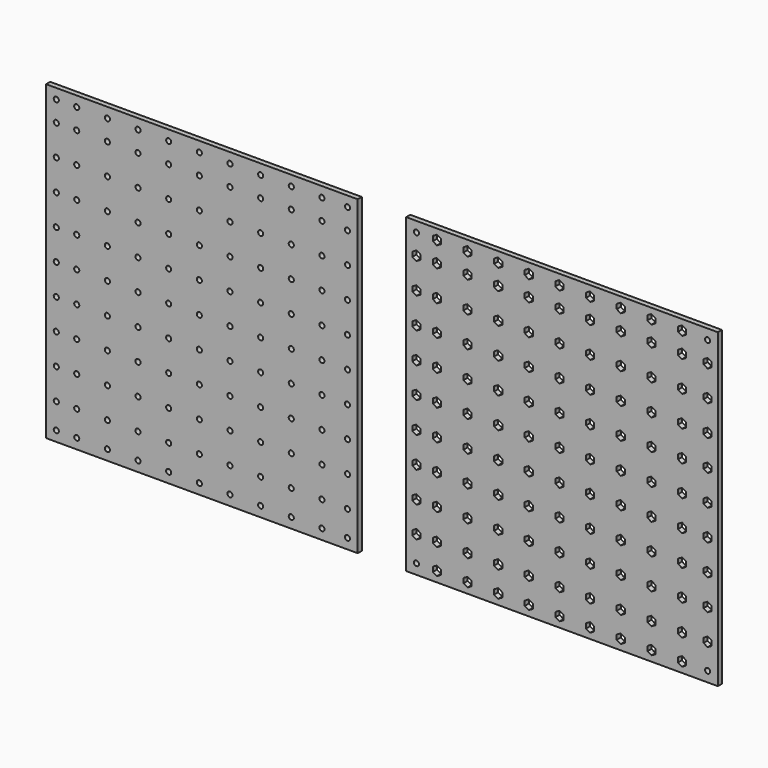
from build123d import *

# Parameters (mm, degrees)
F0_W     = 305
F0_H     = 305
F0_R     = 2.5
F1_DEPTH = 5
F2_W     = 305
F2_H     = 305
F2_R     = 2.5
F3_DEPTH = 5


with BuildPart() as f1:
    # F0 (on Front) → F1 (new body)
    with BuildSketch(Plane.XZ):
        with Locations((0, -18.268233)):
            Rectangle(F0_W, F0_H)
        with Locations((-142.5, -160.768233)):
            Circle(F0_R, mode=Mode.SUBTRACT)
        Polygon((-118.5, -158.458832), (-118.5, -163.077634), (-122.5, -165.387035), (-126.5, -163.077634), (-126.5, -158.458832), (-122.5, -156.149431), align=None, mode=Mode.SUBTRACT)
        Polygon((-138.5, -138.077634), (-142.5, -140.387035), (-146.5, -138.077634), (-146.5, -133.458832), (-142.5, -131.149431), (-138.5, -133.458832), align=None, mode=Mode.SUBTRACT)
        Polygon((-126.5, -133.458832), (-122.5, -131.149431), (-118.5, -133.458832), (-118.5, -138.077634), (-122.5, -140.387035), (-126.5, -138.077634), align=None, mode=Mode.SUBTRACT)
        Polygon((-92.5, -165.387035), (-96.5, -163.077634), (-96.5, -158.458832), (-92.5, -156.149431), (-88.5, -158.458832), (-88.5, -163.077634), align=None, mode=Mode.SUBTRACT)
        Polygon((-96.5, -133.458832), (-92.5, -131.149431), (-88.5, -133.458832), (-88.5, -138.077634), (-92.5, -140.387035), (-96.5, -138.077634), align=None, mode=Mode.SUBTRACT)
        Polygon((-138.5, -108.077634), (-142.5, -110.387035), (-146.5, -108.077634), (-146.5, -103.458832), (-142.5, -101.149431), (-138.5, -103.458832), align=None, mode=Mode.SUBTRACT)
        Polygon((-126.5, -103.458832), (-122.5, -101.149431), (-118.5, -103.458832), (-118.5, -108.077634), (-122.5, -110.387035), (-126.5, -108.077634), align=None, mode=Mode.SUBTRACT)
        Polygon((-96.5, -103.458832), (-92.5, -101.149431), (-88.5, -103.458832), (-88.5, -108.077634), (-92.5, -110.387035), (-96.5, -108.077634), align=None, mode=Mode.SUBTRACT)
        Polygon((-62.5, -165.387035), (-66.5, -163.077634), (-66.5, -158.458832), (-62.5, -156.149431), (-58.5, -158.458832), (-58.5, -163.077634), align=None, mode=Mode.SUBTRACT)
        Polygon((-66.5, -133.458832), (-62.5, -131.149431), (-58.5, -133.458832), (-58.5, -138.077634), (-62.5, -140.387035), (-66.5, -138.077634), align=None, mode=Mode.SUBTRACT)
        Polygon((-32.5, -165.387035), (-36.5, -163.077634), (-36.5, -158.458832), (-32.5, -156.149431), (-28.5, -158.458832), (-28.5, -163.077634), align=None, mode=Mode.SUBTRACT)
        Polygon((-2.5, -165.387035), (-6.5, -163.077634), (-6.5, -158.458832), (-2.5, -156.149431), (1.5, -158.458832), (1.5, -163.077634), align=None, mode=Mode.SUBTRACT)
        Polygon((-36.5, -133.458832), (-32.5, -131.149431), (-28.5, -133.458832), (-28.5, -138.077634), (-32.5, -140.387035), (-36.5, -138.077634), align=None, mode=Mode.SUBTRACT)
        Polygon((-6.5, -133.458832), (-2.5, -131.149431), (1.5, -133.458832), (1.5, -138.077634), (-2.5, -140.387035), (-6.5, -138.077634), align=None, mode=Mode.SUBTRACT)
        Polygon((-66.5, -103.458832), (-62.5, -101.149431), (-58.5, -103.458832), (-58.5, -108.077634), (-62.5, -110.387035), (-66.5, -108.077634), align=None, mode=Mode.SUBTRACT)
        Polygon((-36.5, -103.458832), (-32.5, -101.149431), (-28.5, -103.458832), (-28.5, -108.077634), (-32.5, -110.387035), (-36.5, -108.077634), align=None, mode=Mode.SUBTRACT)
        Polygon((-6.5, -103.458832), (-2.5, -101.149431), (1.5, -103.458832), (1.5, -108.077634), (-2.5, -110.387035), (-6.5, -108.077634), align=None, mode=Mode.SUBTRACT)
        Polygon((-146.5, -73.458832), (-142.5, -71.149431), (-138.5, -73.458832), (-138.5, -78.077634), (-142.5, -80.387035), (-146.5, -78.077634), align=None, mode=Mode.SUBTRACT)
        Polygon((-126.5, -73.458832), (-122.5, -71.149431), (-118.5, -73.458832), (-118.5, -78.077634), (-122.5, -80.387035), (-126.5, -78.077634), align=None, mode=Mode.SUBTRACT)
        Polygon((-96.5, -73.458832), (-92.5, -71.149431), (-88.5, -73.458832), (-88.5, -78.077634), (-92.5, -80.387035), (-96.5, -78.077634), align=None, mode=Mode.SUBTRACT)
        Polygon((-142.5, -50.387035), (-146.5, -48.077634), (-146.5, -43.458832), (-142.5, -41.149431), (-138.5, -43.458832), (-138.5, -48.077634), align=None, mode=Mode.SUBTRACT)
        Polygon((-126.5, -43.458832), (-122.5, -41.149431), (-118.5, -43.458832), (-118.5, -48.077634), (-122.5, -50.387035), (-126.5, -48.077634), align=None, mode=Mode.SUBTRACT)
        Polygon((-96.5, -43.458832), (-92.5, -41.149431), (-88.5, -43.458832), (-88.5, -48.077634), (-92.5, -50.387035), (-96.5, -48.077634), align=None, mode=Mode.SUBTRACT)
        Polygon((-66.5, -73.458832), (-62.5, -71.149431), (-58.5, -73.458832), (-58.5, -78.077634), (-62.5, -80.387035), (-66.5, -78.077634), align=None, mode=Mode.SUBTRACT)
        Polygon((-36.5, -73.458832), (-32.5, -71.149431), (-28.5, -73.458832), (-28.5, -78.077634), (-32.5, -80.387035), (-36.5, -78.077634), align=None, mode=Mode.SUBTRACT)
        Polygon((-6.5, -73.458832), (-2.5, -71.149431), (1.5, -73.458832), (1.5, -78.077634), (-2.5, -80.387035), (-6.5, -78.077634), align=None, mode=Mode.SUBTRACT)
        Polygon((-66.5, -43.458832), (-62.5, -41.149431), (-58.5, -43.458832), (-58.5, -48.077634), (-62.5, -50.387035), (-66.5, -48.077634), align=None, mode=Mode.SUBTRACT)
        Polygon((-36.5, -43.458832), (-32.5, -41.149431), (-28.5, -43.458832), (-28.5, -48.077634), (-32.5, -50.387035), (-36.5, -48.077634), align=None, mode=Mode.SUBTRACT)
        Polygon((-6.5, -43.458832), (-2.5, -41.149431), (1.5, -43.458832), (1.5, -48.077634), (-2.5, -50.387035), (-6.5, -48.077634), align=None, mode=Mode.SUBTRACT)
        Polygon((27.5, -165.387035), (23.5, -163.077634), (23.5, -158.458832), (27.5, -156.149431), (31.5, -158.458832), (31.5, -163.077634), align=None, mode=Mode.SUBTRACT)
        Polygon((23.5, -133.458832), (27.5, -131.149431), (31.5, -133.458832), (31.5, -138.077634), (27.5, -140.387035), (23.5, -138.077634), align=None, mode=Mode.SUBTRACT)
        Polygon((57.5, -165.387035), (53.5, -163.077634), (53.5, -158.458832), (57.5, -156.149431), (61.5, -158.458832), (61.5, -163.077634), align=None, mode=Mode.SUBTRACT)
        Polygon((53.5, -133.458832), (57.5, -131.149431), (61.5, -133.458832), (61.5, -138.077634), (57.5, -140.387035), (53.5, -138.077634), align=None, mode=Mode.SUBTRACT)
        Polygon((23.5, -103.458832), (27.5, -101.149431), (31.5, -103.458832), (31.5, -108.077634), (27.5, -110.387035), (23.5, -108.077634), align=None, mode=Mode.SUBTRACT)
        Polygon((53.5, -103.458832), (57.5, -101.149431), (61.5, -103.458832), (61.5, -108.077634), (57.5, -110.387035), (53.5, -108.077634), align=None, mode=Mode.SUBTRACT)
        Polygon((87.5, -165.387035), (83.5, -163.077634), (83.5, -158.458832), (87.5, -156.149431), (91.5, -158.458832), (91.5, -163.077634), align=None, mode=Mode.SUBTRACT)
        Polygon((83.5, -133.458832), (87.5, -131.149431), (91.5, -133.458832), (91.5, -138.077634), (87.5, -140.387035), (83.5, -138.077634), align=None, mode=Mode.SUBTRACT)
        Polygon((117.5, -165.387035), (113.5, -163.077634), (113.5, -158.458832), (117.5, -156.149431), (121.5, -158.458832), (121.5, -163.077634), align=None, mode=Mode.SUBTRACT)
        with Locations((142.5, -160.768233)):
            Circle(F0_R, mode=Mode.SUBTRACT)
        Polygon((113.5, -133.458832), (117.5, -131.149431), (121.5, -133.458832), (121.5, -138.077634), (117.5, -140.387035), (113.5, -138.077634), align=None, mode=Mode.SUBTRACT)
        Polygon((138.5, -133.458832), (142.5, -131.149431), (146.5, -133.458832), (146.5, -138.077634), (142.5, -140.387035), (138.5, -138.077634), align=None, mode=Mode.SUBTRACT)
        Polygon((83.5, -103.458832), (87.5, -101.149431), (91.5, -103.458832), (91.5, -108.077634), (87.5, -110.387035), (83.5, -108.077634), align=None, mode=Mode.SUBTRACT)
        Polygon((113.5, -103.458832), (117.5, -101.149431), (121.5, -103.458832), (121.5, -108.077634), (117.5, -110.387035), (113.5, -108.077634), align=None, mode=Mode.SUBTRACT)
        Polygon((138.5, -103.458832), (142.5, -101.149431), (146.5, -103.458832), (146.5, -108.077634), (142.5, -110.387035), (138.5, -108.077634), align=None, mode=Mode.SUBTRACT)
        Polygon((23.5, -73.458832), (27.5, -71.149431), (31.5, -73.458832), (31.5, -78.077634), (27.5, -80.387035), (23.5, -78.077634), align=None, mode=Mode.SUBTRACT)
        Polygon((53.5, -73.458832), (57.5, -71.149431), (61.5, -73.458832), (61.5, -78.077634), (57.5, -80.387035), (53.5, -78.077634), align=None, mode=Mode.SUBTRACT)
        Polygon((23.5, -43.458832), (27.5, -41.149431), (31.5, -43.458832), (31.5, -48.077634), (27.5, -50.387035), (23.5, -48.077634), align=None, mode=Mode.SUBTRACT)
        Polygon((53.5, -43.458832), (57.5, -41.149431), (61.5, -43.458832), (61.5, -48.077634), (57.5, -50.387035), (53.5, -48.077634), align=None, mode=Mode.SUBTRACT)
        Polygon((83.5, -73.458832), (87.5, -71.149431), (91.5, -73.458832), (91.5, -78.077634), (87.5, -80.387035), (83.5, -78.077634), align=None, mode=Mode.SUBTRACT)
        Polygon((113.5, -73.458832), (117.5, -71.149431), (121.5, -73.458832), (121.5, -78.077634), (117.5, -80.387035), (113.5, -78.077634), align=None, mode=Mode.SUBTRACT)
        Polygon((138.5, -73.458832), (142.5, -71.149431), (146.5, -73.458832), (146.5, -78.077634), (142.5, -80.387035), (138.5, -78.077634), align=None, mode=Mode.SUBTRACT)
        Polygon((83.5, -43.458832), (87.5, -41.149431), (91.5, -43.458832), (91.5, -48.077634), (87.5, -50.387035), (83.5, -48.077634), align=None, mode=Mode.SUBTRACT)
        Polygon((113.5, -43.458832), (117.5, -41.149431), (121.5, -43.458832), (121.5, -48.077634), (117.5, -50.387035), (113.5, -48.077634), align=None, mode=Mode.SUBTRACT)
        Polygon((138.5, -43.458832), (142.5, -41.149431), (146.5, -43.458832), (146.5, -48.077634), (142.5, -50.387035), (138.5, -48.077634), align=None, mode=Mode.SUBTRACT)
        Polygon((-142.5, -20.387035), (-146.5, -18.077634), (-146.5, -13.458832), (-142.5, -11.149431), (-138.5, -13.458832), (-138.5, -18.077634), align=None, mode=Mode.SUBTRACT)
        Polygon((-126.5, -13.458832), (-122.5, -11.149431), (-118.5, -13.458832), (-118.5, -18.077634), (-122.5, -20.387035), (-126.5, -18.077634), align=None, mode=Mode.SUBTRACT)
        Polygon((-146.5, 11.922366), (-146.5, 16.541168), (-142.5, 18.850569), (-138.5, 16.541168), (-138.5, 11.922366), (-142.5, 9.612965), align=None, mode=Mode.SUBTRACT)
        Polygon((-126.5, 16.541168), (-122.5, 18.850569), (-118.5, 16.541168), (-118.5, 11.922366), (-122.5, 9.612965), (-126.5, 11.922366), align=None, mode=Mode.SUBTRACT)
        Polygon((-96.5, -13.458832), (-92.5, -11.149431), (-88.5, -13.458832), (-88.5, -18.077634), (-92.5, -20.387035), (-96.5, -18.077634), align=None, mode=Mode.SUBTRACT)
        Polygon((-96.5, 16.541168), (-92.5, 18.850569), (-88.5, 16.541168), (-88.5, 11.922366), (-92.5, 9.612965), (-96.5, 11.922366), align=None, mode=Mode.SUBTRACT)
        Polygon((-146.5, 41.922366), (-146.5, 46.541168), (-142.5, 48.850569), (-138.5, 46.541168), (-138.5, 41.922366), (-142.5, 39.612965), align=None, mode=Mode.SUBTRACT)
        Polygon((-126.5, 46.541168), (-122.5, 48.850569), (-118.5, 46.541168), (-118.5, 41.922366), (-122.5, 39.612965), (-126.5, 41.922366), align=None, mode=Mode.SUBTRACT)
        Polygon((-96.5, 46.541168), (-92.5, 48.850569), (-88.5, 46.541168), (-88.5, 41.922366), (-92.5, 39.612965), (-96.5, 41.922366), align=None, mode=Mode.SUBTRACT)
        Polygon((-66.5, -13.458832), (-62.5, -11.149431), (-58.5, -13.458832), (-58.5, -18.077634), (-62.5, -20.387035), (-66.5, -18.077634), align=None, mode=Mode.SUBTRACT)
        Polygon((-66.5, 16.541168), (-62.5, 18.850569), (-58.5, 16.541168), (-58.5, 11.922366), (-62.5, 9.612965), (-66.5, 11.922366), align=None, mode=Mode.SUBTRACT)
        Polygon((-36.5, -13.458832), (-32.5, -11.149431), (-28.5, -13.458832), (-28.5, -18.077634), (-32.5, -20.387035), (-36.5, -18.077634), align=None, mode=Mode.SUBTRACT)
        Polygon((-6.5, -13.458832), (-2.5, -11.149431), (1.5, -13.458832), (1.5, -18.077634), (-2.5, -20.387035), (-6.5, -18.077634), align=None, mode=Mode.SUBTRACT)
        Polygon((-36.5, 16.541168), (-32.5, 18.850569), (-28.5, 16.541168), (-28.5, 11.922366), (-32.5, 9.612965), (-36.5, 11.922366), align=None, mode=Mode.SUBTRACT)
        Polygon((-6.5, 16.541168), (-2.5, 18.850569), (1.5, 16.541168), (1.5, 11.922366), (-2.5, 9.612965), (-6.5, 11.922366), align=None, mode=Mode.SUBTRACT)
        Polygon((-66.5, 46.541168), (-62.5, 48.850569), (-58.5, 46.541168), (-58.5, 41.922366), (-62.5, 39.612965), (-66.5, 41.922366), align=None, mode=Mode.SUBTRACT)
        Polygon((-36.5, 46.541168), (-32.5, 48.850569), (-28.5, 46.541168), (-28.5, 41.922366), (-32.5, 39.612965), (-36.5, 41.922366), align=None, mode=Mode.SUBTRACT)
        Polygon((-6.5, 46.541168), (-2.5, 48.850569), (1.5, 46.541168), (1.5, 41.922366), (-2.5, 39.612965), (-6.5, 41.922366), align=None, mode=Mode.SUBTRACT)
        Polygon((-138.5, 76.541168), (-138.5, 71.922366), (-142.5, 69.612965), (-146.5, 71.922366), (-146.5, 76.541168), (-142.5, 78.850569), align=None, mode=Mode.SUBTRACT)
        Polygon((-126.5, 76.541168), (-122.5, 78.850569), (-118.5, 76.541168), (-118.5, 71.922366), (-122.5, 69.612965), (-126.5, 71.922366), align=None, mode=Mode.SUBTRACT)
        Polygon((-96.5, 76.541168), (-92.5, 78.850569), (-88.5, 76.541168), (-88.5, 71.922366), (-92.5, 69.612965), (-96.5, 71.922366), align=None, mode=Mode.SUBTRACT)
        Polygon((-138.5, 101.922366), (-142.5, 99.612965), (-146.5, 101.922366), (-146.5, 106.541168), (-142.5, 108.850569), (-138.5, 106.541168), align=None, mode=Mode.SUBTRACT)
        Polygon((-126.5, 101.922366), (-126.5, 106.541168), (-122.5, 108.850569), (-118.5, 106.541168), (-118.5, 101.922366), (-122.5, 99.612965), align=None, mode=Mode.SUBTRACT)
        with Locations((-142.5, 124.231767)):
            Circle(F0_R, mode=Mode.SUBTRACT)
        Polygon((-126.5, 121.922366), (-126.5, 126.541168), (-122.5, 128.850569), (-118.5, 126.541168), (-118.5, 121.922366), (-122.5, 119.612965), align=None, mode=Mode.SUBTRACT)
        Polygon((-96.5, 106.541168), (-92.5, 108.850569), (-88.5, 106.541168), (-88.5, 101.922366), (-92.5, 99.612965), (-96.5, 101.922366), align=None, mode=Mode.SUBTRACT)
        Polygon((-96.5, 126.541168), (-92.5, 128.850569), (-88.5, 126.541168), (-88.5, 121.922366), (-92.5, 119.612965), (-96.5, 121.922366), align=None, mode=Mode.SUBTRACT)
        Polygon((-66.5, 76.541168), (-62.5, 78.850569), (-58.5, 76.541168), (-58.5, 71.922366), (-62.5, 69.612965), (-66.5, 71.922366), align=None, mode=Mode.SUBTRACT)
        Polygon((-36.5, 76.541168), (-32.5, 78.850569), (-28.5, 76.541168), (-28.5, 71.922366), (-32.5, 69.612965), (-36.5, 71.922366), align=None, mode=Mode.SUBTRACT)
        Polygon((-6.5, 76.541168), (-2.5, 78.850569), (1.5, 76.541168), (1.5, 71.922366), (-2.5, 69.612965), (-6.5, 71.922366), align=None, mode=Mode.SUBTRACT)
        Polygon((-66.5, 106.541168), (-62.5, 108.850569), (-58.5, 106.541168), (-58.5, 101.922366), (-62.5, 99.612965), (-66.5, 101.922366), align=None, mode=Mode.SUBTRACT)
        Polygon((-58.5, 121.922366), (-62.5, 119.612965), (-66.5, 121.922366), (-66.5, 126.541168), (-62.5, 128.850569), (-58.5, 126.541168), align=None, mode=Mode.SUBTRACT)
        Polygon((-36.5, 106.541168), (-32.5, 108.850569), (-28.5, 106.541168), (-28.5, 101.922366), (-32.5, 99.612965), (-36.5, 101.922366), align=None, mode=Mode.SUBTRACT)
        Polygon((-6.5, 106.541168), (-2.5, 108.850569), (1.5, 106.541168), (1.5, 101.922366), (-2.5, 99.612965), (-6.5, 101.922366), align=None, mode=Mode.SUBTRACT)
        Polygon((-28.5, 121.922366), (-32.5, 119.612965), (-36.5, 121.922366), (-36.5, 126.541168), (-32.5, 128.850569), (-28.5, 126.541168), align=None, mode=Mode.SUBTRACT)
        Polygon((1.5, 121.922366), (-2.5, 119.612965), (-6.5, 121.922366), (-6.5, 126.541168), (-2.5, 128.850569), (1.5, 126.541168), align=None, mode=Mode.SUBTRACT)
        Polygon((23.5, -13.458832), (27.5, -11.149431), (31.5, -13.458832), (31.5, -18.077634), (27.5, -20.387035), (23.5, -18.077634), align=None, mode=Mode.SUBTRACT)
        Polygon((23.5, 16.541168), (27.5, 18.850569), (31.5, 16.541168), (31.5, 11.922366), (27.5, 9.612965), (23.5, 11.922366), align=None, mode=Mode.SUBTRACT)
        Polygon((53.5, -13.458832), (57.5, -11.149431), (61.5, -13.458832), (61.5, -18.077634), (57.5, -20.387035), (53.5, -18.077634), align=None, mode=Mode.SUBTRACT)
        Polygon((53.5, 16.541168), (57.5, 18.850569), (61.5, 16.541168), (61.5, 11.922366), (57.5, 9.612965), (53.5, 11.922366), align=None, mode=Mode.SUBTRACT)
        Polygon((23.5, 46.541168), (27.5, 48.850569), (31.5, 46.541168), (31.5, 41.922366), (27.5, 39.612965), (23.5, 41.922366), align=None, mode=Mode.SUBTRACT)
        Polygon((53.5, 46.541168), (57.5, 48.850569), (61.5, 46.541168), (61.5, 41.922366), (57.5, 39.612965), (53.5, 41.922366), align=None, mode=Mode.SUBTRACT)
        Polygon((83.5, -13.458832), (87.5, -11.149431), (91.5, -13.458832), (91.5, -18.077634), (87.5, -20.387035), (83.5, -18.077634), align=None, mode=Mode.SUBTRACT)
        Polygon((83.5, 16.541168), (87.5, 18.850569), (91.5, 16.541168), (91.5, 11.922366), (87.5, 9.612965), (83.5, 11.922366), align=None, mode=Mode.SUBTRACT)
        Polygon((113.5, -13.458832), (117.5, -11.149431), (121.5, -13.458832), (121.5, -18.077634), (117.5, -20.387035), (113.5, -18.077634), align=None, mode=Mode.SUBTRACT)
        Polygon((138.5, -13.458832), (142.5, -11.149431), (146.5, -13.458832), (146.5, -18.077634), (142.5, -20.387035), (138.5, -18.077634), align=None, mode=Mode.SUBTRACT)
        Polygon((113.5, 16.541168), (117.5, 18.850569), (121.5, 16.541168), (121.5, 11.922366), (117.5, 9.612965), (113.5, 11.922366), align=None, mode=Mode.SUBTRACT)
        Polygon((138.5, 16.541168), (142.5, 18.850569), (146.5, 16.541168), (146.5, 11.922366), (142.5, 9.612965), (138.5, 11.922366), align=None, mode=Mode.SUBTRACT)
        Polygon((83.5, 46.541168), (87.5, 48.850569), (91.5, 46.541168), (91.5, 41.922366), (87.5, 39.612965), (83.5, 41.922366), align=None, mode=Mode.SUBTRACT)
        Polygon((113.5, 46.541168), (117.5, 48.850569), (121.5, 46.541168), (121.5, 41.922366), (117.5, 39.612965), (113.5, 41.922366), align=None, mode=Mode.SUBTRACT)
        Polygon((138.5, 46.541168), (142.5, 48.850569), (146.5, 46.541168), (146.5, 41.922366), (142.5, 39.612965), (138.5, 41.922366), align=None, mode=Mode.SUBTRACT)
        Polygon((23.5, 76.541168), (27.5, 78.850569), (31.5, 76.541168), (31.5, 71.922366), (27.5, 69.612965), (23.5, 71.922366), align=None, mode=Mode.SUBTRACT)
        Polygon((53.5, 76.541168), (57.5, 78.850569), (61.5, 76.541168), (61.5, 71.922366), (57.5, 69.612965), (53.5, 71.922366), align=None, mode=Mode.SUBTRACT)
        Polygon((23.5, 106.541168), (27.5, 108.850569), (31.5, 106.541168), (31.5, 101.922366), (27.5, 99.612965), (23.5, 101.922366), align=None, mode=Mode.SUBTRACT)
        Polygon((23.5, 121.922366), (23.5, 126.541168), (27.5, 128.850569), (31.5, 126.541168), (31.5, 121.922366), (27.5, 119.612965), align=None, mode=Mode.SUBTRACT)
        Polygon((53.5, 106.541168), (57.5, 108.850569), (61.5, 106.541168), (61.5, 101.922366), (57.5, 99.612965), (53.5, 101.922366), align=None, mode=Mode.SUBTRACT)
        Polygon((53.5, 126.541168), (57.5, 128.850569), (61.5, 126.541168), (61.5, 121.922366), (57.5, 119.612965), (53.5, 121.922366), align=None, mode=Mode.SUBTRACT)
        Polygon((83.5, 76.541168), (87.5, 78.850569), (91.5, 76.541168), (91.5, 71.922366), (87.5, 69.612965), (83.5, 71.922366), align=None, mode=Mode.SUBTRACT)
        Polygon((113.5, 76.541168), (117.5, 78.850569), (121.5, 76.541168), (121.5, 71.922366), (117.5, 69.612965), (113.5, 71.922366), align=None, mode=Mode.SUBTRACT)
        Polygon((138.5, 76.541168), (142.5, 78.850569), (146.5, 76.541168), (146.5, 71.922366), (142.5, 69.612965), (138.5, 71.922366), align=None, mode=Mode.SUBTRACT)
        Polygon((83.5, 106.541168), (87.5, 108.850569), (91.5, 106.541168), (91.5, 101.922366), (87.5, 99.612965), (83.5, 101.922366), align=None, mode=Mode.SUBTRACT)
        Polygon((87.5, 119.612965), (83.5, 121.922366), (83.5, 126.541168), (87.5, 128.850569), (91.5, 126.541168), (91.5, 121.922366), align=None, mode=Mode.SUBTRACT)
        Polygon((113.5, 106.541168), (117.5, 108.850569), (121.5, 106.541168), (121.5, 101.922366), (117.5, 99.612965), (113.5, 101.922366), align=None, mode=Mode.SUBTRACT)
        Polygon((146.5, 106.541168), (146.5, 101.922366), (142.5, 99.612965), (138.5, 101.922366), (138.5, 106.541168), (142.5, 108.850569), align=None, mode=Mode.SUBTRACT)
        Polygon((121.5, 121.922366), (117.5, 119.612965), (113.5, 121.922366), (113.5, 126.541168), (117.5, 128.850569), (121.5, 126.541168), align=None, mode=Mode.SUBTRACT)
        with Locations((142.5, 124.231767)):
            Circle(F0_R, mode=Mode.SUBTRACT)
    extrude(amount=F1_DEPTH)


with BuildPart() as f3:
    # F2 (on Front) → F3 (new body)
    with BuildSketch(Plane.XZ):
        with Locations((-352.5, -18.332861)):
            Rectangle(F2_W, F2_H)
        with Locations((-495, -160.832861)):
            Circle(F2_R, mode=Mode.SUBTRACT)
        with Locations((-475, -160.832861)):
            Circle(F2_R, mode=Mode.SUBTRACT)
        with Locations((-495, -135.832861)):
            Circle(F2_R, mode=Mode.SUBTRACT)
        with Locations((-475, -135.832861)):
            Circle(F2_R, mode=Mode.SUBTRACT)
        with Locations((-445, -160.832861)):
            Circle(F2_R, mode=Mode.SUBTRACT)
        with Locations((-445, -135.832861)):
            Circle(F2_R, mode=Mode.SUBTRACT)
        with Locations((-495, -105.832861)):
            Circle(F2_R, mode=Mode.SUBTRACT)
        with Locations((-475, -105.832861)):
            Circle(F2_R, mode=Mode.SUBTRACT)
        with Locations((-445, -105.832861)):
            Circle(F2_R, mode=Mode.SUBTRACT)
        with Locations((-415, -160.832861)):
            Circle(F2_R, mode=Mode.SUBTRACT)
        with Locations((-415, -135.832861)):
            Circle(F2_R, mode=Mode.SUBTRACT)
        with Locations((-385, -160.832861)):
            Circle(F2_R, mode=Mode.SUBTRACT)
        with Locations((-355, -160.832861)):
            Circle(F2_R, mode=Mode.SUBTRACT)
        with Locations((-385, -135.832861)):
            Circle(F2_R, mode=Mode.SUBTRACT)
        with Locations((-355, -135.832861)):
            Circle(F2_R, mode=Mode.SUBTRACT)
        with Locations((-415, -105.832861)):
            Circle(F2_R, mode=Mode.SUBTRACT)
        with Locations((-385, -105.832861)):
            Circle(F2_R, mode=Mode.SUBTRACT)
        with Locations((-355, -105.832861)):
            Circle(F2_R, mode=Mode.SUBTRACT)
        with Locations((-495, -75.832861)):
            Circle(F2_R, mode=Mode.SUBTRACT)
        with Locations((-475, -75.832861)):
            Circle(F2_R, mode=Mode.SUBTRACT)
        with Locations((-445, -75.832861)):
            Circle(F2_R, mode=Mode.SUBTRACT)
        with Locations((-495, -45.832861)):
            Circle(F2_R, mode=Mode.SUBTRACT)
        with Locations((-475, -45.832861)):
            Circle(F2_R, mode=Mode.SUBTRACT)
        with Locations((-445, -45.832861)):
            Circle(F2_R, mode=Mode.SUBTRACT)
        with Locations((-415, -75.832861)):
            Circle(F2_R, mode=Mode.SUBTRACT)
        with Locations((-385, -75.832861)):
            Circle(F2_R, mode=Mode.SUBTRACT)
        with Locations((-355, -75.832861)):
            Circle(F2_R, mode=Mode.SUBTRACT)
        with Locations((-415, -45.832861)):
            Circle(F2_R, mode=Mode.SUBTRACT)
        with Locations((-385, -45.832861)):
            Circle(F2_R, mode=Mode.SUBTRACT)
        with Locations((-355, -45.832861)):
            Circle(F2_R, mode=Mode.SUBTRACT)
        with Locations((-325, -160.832861)):
            Circle(F2_R, mode=Mode.SUBTRACT)
        with Locations((-325, -135.832861)):
            Circle(F2_R, mode=Mode.SUBTRACT)
        with Locations((-295, -160.832861)):
            Circle(F2_R, mode=Mode.SUBTRACT)
        with Locations((-295, -135.832861)):
            Circle(F2_R, mode=Mode.SUBTRACT)
        with Locations((-325, -105.832861)):
            Circle(F2_R, mode=Mode.SUBTRACT)
        with Locations((-295, -105.832861)):
            Circle(F2_R, mode=Mode.SUBTRACT)
        with Locations((-265, -160.832861)):
            Circle(F2_R, mode=Mode.SUBTRACT)
        with Locations((-265, -135.832861)):
            Circle(F2_R, mode=Mode.SUBTRACT)
        with Locations((-235, -160.832861)):
            Circle(F2_R, mode=Mode.SUBTRACT)
        with Locations((-210, -160.832861)):
            Circle(F2_R, mode=Mode.SUBTRACT)
        with Locations((-235, -135.832861)):
            Circle(F2_R, mode=Mode.SUBTRACT)
        with Locations((-210, -135.832861)):
            Circle(F2_R, mode=Mode.SUBTRACT)
        with Locations((-265, -105.832861)):
            Circle(F2_R, mode=Mode.SUBTRACT)
        with Locations((-235, -105.832861)):
            Circle(F2_R, mode=Mode.SUBTRACT)
        with Locations((-210, -105.832861)):
            Circle(F2_R, mode=Mode.SUBTRACT)
        with Locations((-325, -75.832861)):
            Circle(F2_R, mode=Mode.SUBTRACT)
        with Locations((-295, -75.832861)):
            Circle(F2_R, mode=Mode.SUBTRACT)
        with Locations((-325, -45.832861)):
            Circle(F2_R, mode=Mode.SUBTRACT)
        with Locations((-295, -45.832861)):
            Circle(F2_R, mode=Mode.SUBTRACT)
        with Locations((-265, -75.832861)):
            Circle(F2_R, mode=Mode.SUBTRACT)
        with Locations((-235, -75.832861)):
            Circle(F2_R, mode=Mode.SUBTRACT)
        with Locations((-210, -75.832861)):
            Circle(F2_R, mode=Mode.SUBTRACT)
        with Locations((-265, -45.832861)):
            Circle(F2_R, mode=Mode.SUBTRACT)
        with Locations((-235, -45.832861)):
            Circle(F2_R, mode=Mode.SUBTRACT)
        with Locations((-210, -45.832861)):
            Circle(F2_R, mode=Mode.SUBTRACT)
        with Locations((-495, -15.832861)):
            Circle(F2_R, mode=Mode.SUBTRACT)
        with Locations((-475, -15.832861)):
            Circle(F2_R, mode=Mode.SUBTRACT)
        with Locations((-495, 14.167139)):
            Circle(F2_R, mode=Mode.SUBTRACT)
        with Locations((-475, 14.167139)):
            Circle(F2_R, mode=Mode.SUBTRACT)
        with Locations((-445, -15.832861)):
            Circle(F2_R, mode=Mode.SUBTRACT)
        with Locations((-445, 14.167139)):
            Circle(F2_R, mode=Mode.SUBTRACT)
        with Locations((-495, 44.167139)):
            Circle(F2_R, mode=Mode.SUBTRACT)
        with Locations((-475, 44.167139)):
            Circle(F2_R, mode=Mode.SUBTRACT)
        with Locations((-445, 44.167139)):
            Circle(F2_R, mode=Mode.SUBTRACT)
        with Locations((-415, -15.832861)):
            Circle(F2_R, mode=Mode.SUBTRACT)
        with Locations((-415, 14.167139)):
            Circle(F2_R, mode=Mode.SUBTRACT)
        with Locations((-385, -15.832861)):
            Circle(F2_R, mode=Mode.SUBTRACT)
        with Locations((-355, -15.832861)):
            Circle(F2_R, mode=Mode.SUBTRACT)
        with Locations((-385, 14.167139)):
            Circle(F2_R, mode=Mode.SUBTRACT)
        with Locations((-355, 14.167139)):
            Circle(F2_R, mode=Mode.SUBTRACT)
        with Locations((-415, 44.167139)):
            Circle(F2_R, mode=Mode.SUBTRACT)
        with Locations((-385, 44.167139)):
            Circle(F2_R, mode=Mode.SUBTRACT)
        with Locations((-355, 44.167139)):
            Circle(F2_R, mode=Mode.SUBTRACT)
        with Locations((-495, 74.167139)):
            Circle(F2_R, mode=Mode.SUBTRACT)
        with Locations((-475, 74.167139)):
            Circle(F2_R, mode=Mode.SUBTRACT)
        with Locations((-445, 74.167139)):
            Circle(F2_R, mode=Mode.SUBTRACT)
        with Locations((-495, 104.167139)):
            Circle(F2_R, mode=Mode.SUBTRACT)
        with Locations((-475, 104.167139)):
            Circle(F2_R, mode=Mode.SUBTRACT)
        with Locations((-495, 124.167139)):
            Circle(F2_R, mode=Mode.SUBTRACT)
        with Locations((-475, 124.167139)):
            Circle(F2_R, mode=Mode.SUBTRACT)
        with Locations((-445, 104.167139)):
            Circle(F2_R, mode=Mode.SUBTRACT)
        with Locations((-445, 124.167139)):
            Circle(F2_R, mode=Mode.SUBTRACT)
        with Locations((-415, 74.167139)):
            Circle(F2_R, mode=Mode.SUBTRACT)
        with Locations((-385, 74.167139)):
            Circle(F2_R, mode=Mode.SUBTRACT)
        with Locations((-355, 74.167139)):
            Circle(F2_R, mode=Mode.SUBTRACT)
        with Locations((-415, 104.167139)):
            Circle(F2_R, mode=Mode.SUBTRACT)
        with Locations((-415, 124.167139)):
            Circle(F2_R, mode=Mode.SUBTRACT)
        with Locations((-385, 104.167139)):
            Circle(F2_R, mode=Mode.SUBTRACT)
        with Locations((-355, 104.167139)):
            Circle(F2_R, mode=Mode.SUBTRACT)
        with Locations((-385, 124.167139)):
            Circle(F2_R, mode=Mode.SUBTRACT)
        with Locations((-355, 124.167139)):
            Circle(F2_R, mode=Mode.SUBTRACT)
        with Locations((-325, -15.832861)):
            Circle(F2_R, mode=Mode.SUBTRACT)
        with Locations((-325, 14.167139)):
            Circle(F2_R, mode=Mode.SUBTRACT)
        with Locations((-295, -15.832861)):
            Circle(F2_R, mode=Mode.SUBTRACT)
        with Locations((-295, 14.167139)):
            Circle(F2_R, mode=Mode.SUBTRACT)
        with Locations((-325, 44.167139)):
            Circle(F2_R, mode=Mode.SUBTRACT)
        with Locations((-295, 44.167139)):
            Circle(F2_R, mode=Mode.SUBTRACT)
        with Locations((-265, -15.832861)):
            Circle(F2_R, mode=Mode.SUBTRACT)
        with Locations((-265, 14.167139)):
            Circle(F2_R, mode=Mode.SUBTRACT)
        with Locations((-235, -15.832861)):
            Circle(F2_R, mode=Mode.SUBTRACT)
        with Locations((-210, -15.832861)):
            Circle(F2_R, mode=Mode.SUBTRACT)
        with Locations((-235, 14.167139)):
            Circle(F2_R, mode=Mode.SUBTRACT)
        with Locations((-210, 14.167139)):
            Circle(F2_R, mode=Mode.SUBTRACT)
        with Locations((-265, 44.167139)):
            Circle(F2_R, mode=Mode.SUBTRACT)
        with Locations((-235, 44.167139)):
            Circle(F2_R, mode=Mode.SUBTRACT)
        with Locations((-210, 44.167139)):
            Circle(F2_R, mode=Mode.SUBTRACT)
        with Locations((-325, 74.167139)):
            Circle(F2_R, mode=Mode.SUBTRACT)
        with Locations((-295, 74.167139)):
            Circle(F2_R, mode=Mode.SUBTRACT)
        with Locations((-325, 104.167139)):
            Circle(F2_R, mode=Mode.SUBTRACT)
        with Locations((-325, 124.167139)):
            Circle(F2_R, mode=Mode.SUBTRACT)
        with Locations((-295, 104.167139)):
            Circle(F2_R, mode=Mode.SUBTRACT)
        with Locations((-295, 124.167139)):
            Circle(F2_R, mode=Mode.SUBTRACT)
        with Locations((-265, 74.167139)):
            Circle(F2_R, mode=Mode.SUBTRACT)
        with Locations((-235, 74.167139)):
            Circle(F2_R, mode=Mode.SUBTRACT)
        with Locations((-210, 74.167139)):
            Circle(F2_R, mode=Mode.SUBTRACT)
        with Locations((-265, 104.167139)):
            Circle(F2_R, mode=Mode.SUBTRACT)
        with Locations((-265, 124.167139)):
            Circle(F2_R, mode=Mode.SUBTRACT)
        with Locations((-235, 104.167139)):
            Circle(F2_R, mode=Mode.SUBTRACT)
        with Locations((-210, 104.167139)):
            Circle(F2_R, mode=Mode.SUBTRACT)
        with Locations((-235, 124.167139)):
            Circle(F2_R, mode=Mode.SUBTRACT)
        with Locations((-210, 124.167139)):
            Circle(F2_R, mode=Mode.SUBTRACT)
    extrude(amount=F3_DEPTH)


solid = Compound([f1.part, f3.part])
